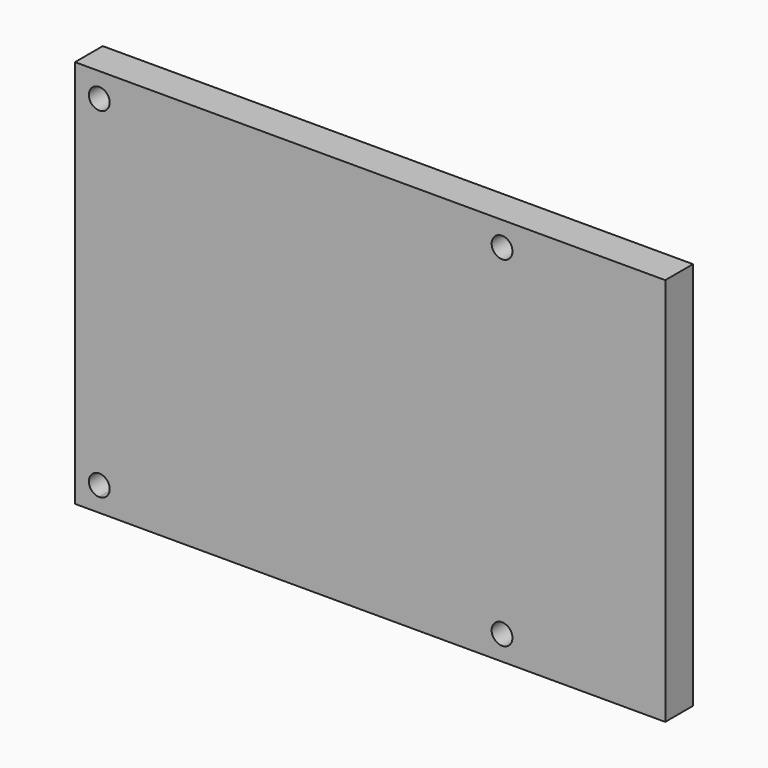
from build123d import *

# Parameters (mm, degrees)
F1_DEPTH = 5


with BuildPart() as f1:
    # F0 (on Front) → F1 (new body)
    with BuildSketch(Plane.XZ):
        with BuildLine():
            Line((42.5, 24.5), (42.5, 28))
            Line((42.5, 28), (-39, 28))
            Line((-39, 28), (-39, 26))
            ThreePointArc((-39, 26), (-37.93934, 25.56066), (-37.5, 24.5))
            Line((-37.5, 24.5), (17.5, 24.5))
            ThreePointArc((17.5, 24.5), (19, 26), (20.5, 24.5))
            Line((20.5, 24.5), (42.5, 24.5))
        make_face()
        with BuildLine():
            ThreePointArc((20.5, -24.5), (19, -23), (17.5, -24.5))
            ThreePointArc((17.5, -24.5), (19, -26), (20.5, -24.5))
        make_face()
        with BuildLine():
            Line((-39, 26), (-39, 28))
            Line((-39, 28), (-42.5, 28))
            Line((-42.5, 28), (-42.5, -28))
            Line((-42.5, -28), (-39, -28))
            Line((-39, -28), (42.5, -28))
            Line((42.5, -28), (42.5, 24.5))
            Line((42.5, 24.5), (20.5, 24.5))
            ThreePointArc((20.5, 24.5), (19, 23), (17.5, 24.5))
            Line((17.5, 24.5), (-37.5, 24.5))
            ThreePointArc((-37.5, 24.5), (-40.06066, 23.43934), (-39, 26))
        make_face()
        with BuildLine():
            ThreePointArc((-37.5, -24.5), (-37.93934, -25.56066), (-39, -26))
            ThreePointArc((-39, -26), (-40.06066, -23.43934), (-37.5, -24.5))
        make_face(mode=Mode.SUBTRACT)
        with BuildLine():
            ThreePointArc((20.5, -24.5), (19, -26), (17.5, -24.5))
            ThreePointArc((17.5, -24.5), (19, -23), (20.5, -24.5))
        make_face(mode=Mode.SUBTRACT)
    extrude(amount=F1_DEPTH)


solid = f1.part
